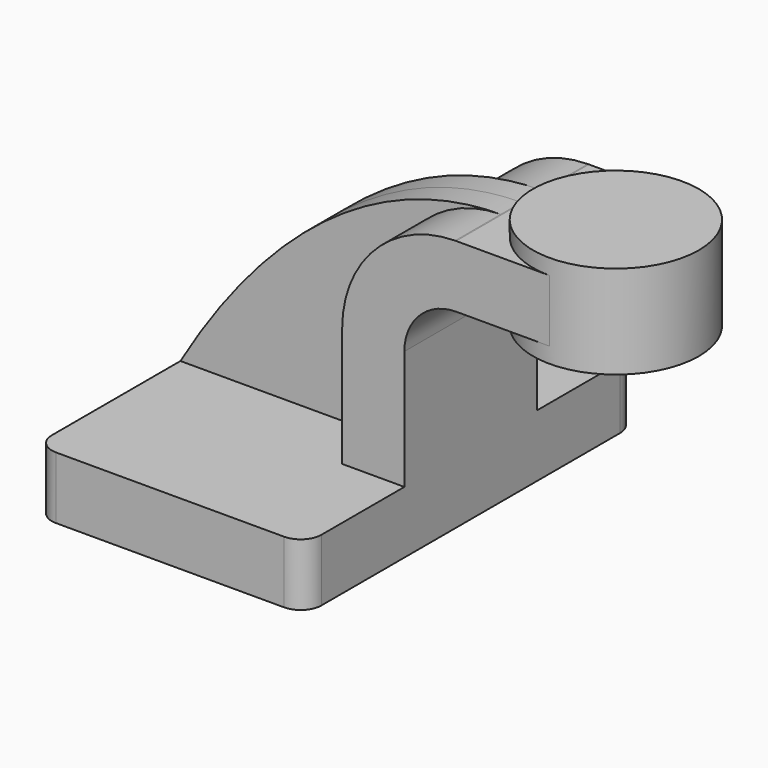
from build123d import *

# Parameters (mm, degrees)
F1_DEPTH = 63.5
F2_DEPTH = 25.4
F3_DEPTH = 7.9375
F5_R     = 6.35


with BuildPart() as f1:
    # F0 (on Front) → F1 (new body, symmetric)
    with BuildSketch(Plane.XZ):
        Polygon((-41.275, 9.525), (-41.275, -9.525), (41.275, -9.525), (41.275, 9.525), (22.225, 9.525), align=None)
    extrude(amount=F1_DEPTH, both=True)

    # F0 (on Front) → F2 (join, symmetric)
    with BuildSketch(Plane.XZ):
        with BuildLine():
            Line((22.225, 9.525), (41.275, 9.525))
            Line((41.275, 9.525), (41.275, 46.0502))
            ThreePointArc((41.275, 46.0502), (45.92468, 57.27552), (57.15, 61.9252))
            Line((57.15, 61.9252), (60.325, 61.9252))
            Line((60.325, 61.9252), (60.325, 80.9752))
            Line((60.325, 80.9752), (57.15, 80.9752))
            add(Edge.make_bspline(
                [(56.815137, 80.973595), (56.926678, 80.974353), (57.038299, 80.974888), (57.15, 80.9752)],
                knots=[121.334974, 121.334974, 121.334974, 121.334974, 121.624881, 121.624881, 121.624881, 121.624881], degree=3))
            ThreePointArc((56.815137, 80.973595), (32.336186, 70.627227), (22.225, 46.0502))
            Line((22.225, 46.0502), (22.225, 9.525))
        make_face()
        Polygon((85.725, 80.9752), (60.325, 80.9752), (60.325, 61.9252), (71.4375, 61.9252), (85.725, 61.9252), align=None)
    extrude(amount=F2_DEPTH, both=True)

    # F0 (on Front) → F3 (join, symmetric)
    with BuildSketch(Plane.XZ):
        with BuildLine():
            add(Edge.make_bspline(
                [(-41.275, 9.525), (-22.584794, 41.291515), (10.131669, 80.656242), (56.815137, 80.973595)],
                knots=[0, 0, 0, 0, 121.334974, 121.334974, 121.334974, 121.334974], degree=3))
            Line((-41.275, 9.525), (22.225, 9.525))
            Line((22.225, 9.525), (22.225, 46.0502))
            ThreePointArc((22.225, 46.0502), (32.336186, 70.627227), (56.815137, 80.973595))
        make_face()
    extrude(amount=F3_DEPTH, both=True)

    # F0 (on Front) → F4 (revolve)
    with BuildSketch(Plane.XZ):
        Polygon((85.725, 85.725), (85.725, 80.9752), (85.725, 61.9252), (85.725, 57.15), (111.125, 57.15), (111.125, 85.725), align=None)
    revolve(axis=Axis((85.725, 0, 71.4375), (0, 0, 1)))

    # F5
    f5_edges = [f1.edges().sort_by_distance(p)[0] for p in [
        (-41.275, -63.5, 0),
        (41.275, -63.5, 0),
        (41.275, 63.5, 0),
        (-41.275, 63.5, 0),
    ]]
    fillet(f5_edges, radius=F5_R)


solid = f1.part
